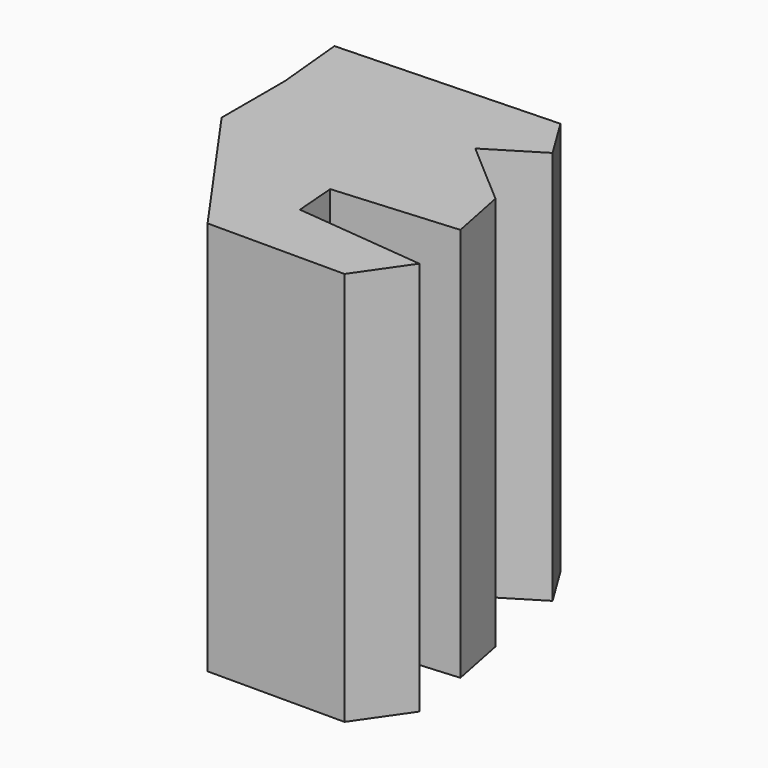
from build123d import *

# Parameters (mm, degrees)
F1_DEPTH = 15
F2_DEPTH = 83.82


with BuildPart() as f1:
    # F0 (on Top) → F1 (new body, symmetric)
    with BuildSketch(Plane.XY):
        Polygon((20.593876, 37.709061), (-42.857531, 35.482697), (-40.909462, 15.167112), (-40.909462, -7.65313), (-11.131826, -49.954068), (28.386155, -49.954068), (38.404796, -35.482697), (0.953089, -31.724066), (0, -19.619845), (35.34355, -16.836887), (32.003999, 0), (13.142763, 16.280918), (28.107863, 25.464052), align=None)
    extrude(amount=F1_DEPTH, both=True)

    # F1_face (on face) → F2 (join)
    with BuildSketch(Plane(origin=(-4.856756, -2.869367, 15), x_dir=(1, 0, 0), z_dir=(0, 0, 1))):
        Polygon((5.809844, -28.854699), (4.856756, -16.750478), (40.200306, -13.96752), (36.860755, 2.869367), (17.999519, 19.150285), (32.964619, 28.333419), (25.450632, 40.578428), (-38.000776, 38.352064), (-36.052706, 18.036479), (-36.052706, -4.783763), (-6.27507, -47.084701), (33.242911, -47.084701), (43.261552, -32.61333), align=None)
    extrude(amount=F2_DEPTH)


solid = f1.part
